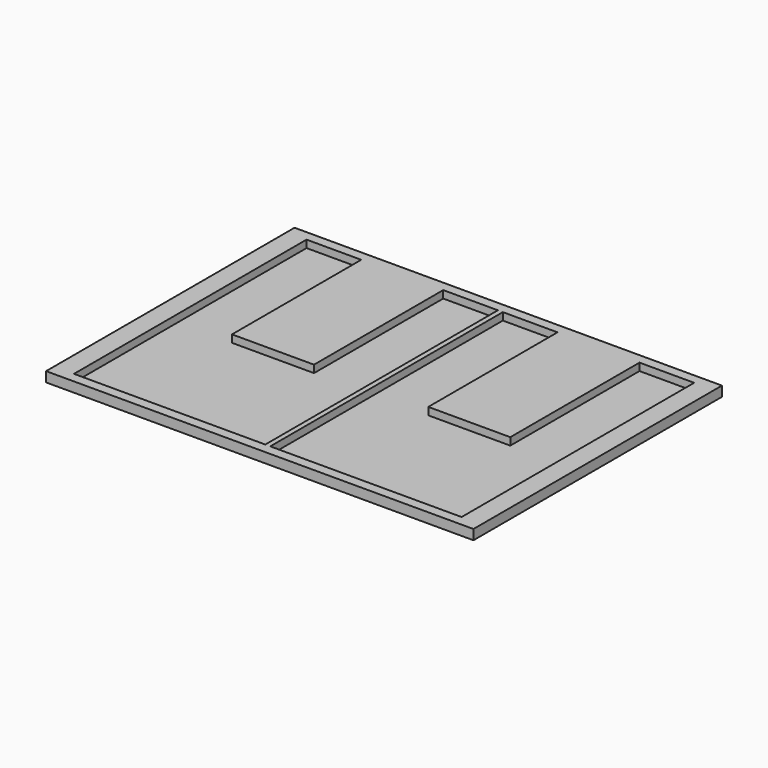
from build123d import *

# Parameters (mm, degrees)
F1_W     = 172
F1_H     = 125
F2_DEPTH = 4
F3_DEPTH = 3


with BuildPart() as f2:
    # F1 (on Top) → F2 (new body)
    with BuildSketch(Plane.XY):
        Rectangle(F1_W, F1_H)
    extrude(amount=-F2_DEPTH)

    # F0 (on Top) → F3 (cut)
    with BuildSketch(Plane.XY):
        Polygon((-1, 58.5342056155), (-23, 58.5342056155), (-23, -6.4657943845), (-56, -6.4657943845), (-56, 58.5342056155), (-78, 58.5342056155), (-78, -58.4657943845), (-1, -58.4657943845), align=None)
        Polygon((-77, -57.4657943845), (-77, 57.5342056155), (-57, 57.5342056155), (-57, -7.4657943845), (-22, -7.4657943845), (-22, 57.5342056155), (-2, 57.5342056155), (-2, -7.5), (-2, -57.4657943845), align=None, mode=Mode.SUBTRACT)
        Polygon((1, 58.5342056155), (1, -58.4657943845), (78, -58.4657943845), (78, 58.5342056155), (56, 58.5342056155), (56, -6.4657943845), (23, -6.4657943845), (23, 58.5342056155), align=None)
        Polygon((77, -57.4657943845), (2, -57.4657943845), (2, -7.5), (2, 57.5342056155), (22, 57.5342056155), (22, -7.4657943845), (57, -7.4657943845), (57, 57.5342056155), (77, 57.5342056155), align=None, mode=Mode.SUBTRACT)
        Polygon((-57, 57.5342056155), (-77, 57.5342056155), (-77, -57.4657943845), (-2, -57.4657943845), (-2, -7.5), (-2, 57.5342056155), (-22, 57.5342056155), (-22, -7.4657943845), (-57, -7.4657943845), align=None)
        Polygon((2, -7.5), (2, -57.4657943845), (77, -57.4657943845), (77, 57.5342056155), (57, 57.5342056155), (57, -7.4657943845), (22, -7.4657943845), (22, 57.5342056155), (2, 57.5342056155), align=None)
    extrude(amount=-F3_DEPTH, mode=Mode.SUBTRACT)


solid = f2.part
